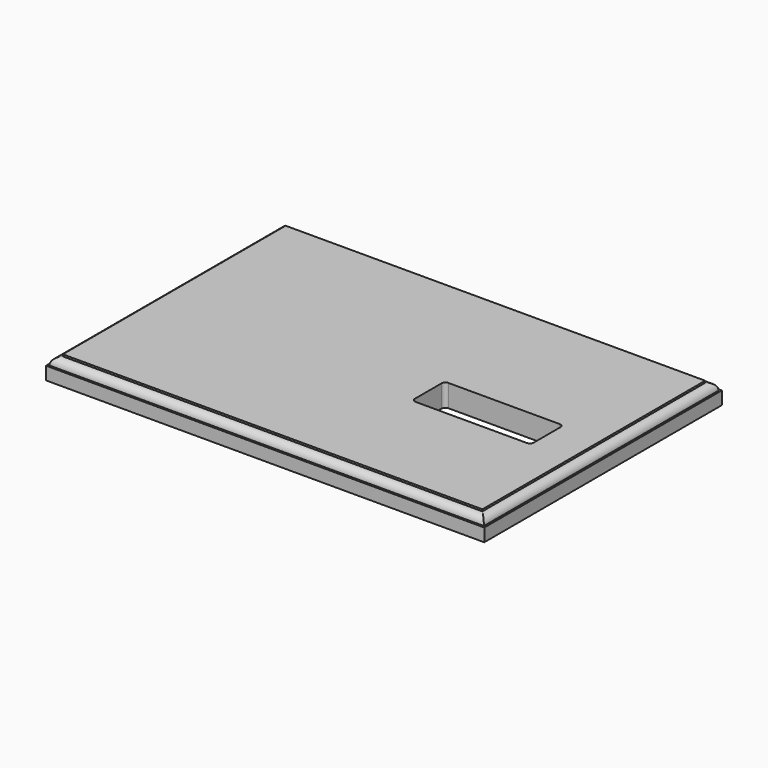
from build123d import *

# Parameters (mm, degrees)
F0_W     = 374.65
F0_H     = 254
F1_DEPTH = 19.05
F3_DEPTH = 152.4
F5_DEPTH = 203.2


with BuildPart() as f1:
    # F0 (on Top) → F1 (new body)
    with BuildSketch(Plane.XY):
        Rectangle(F0_W, F0_H)
        with BuildLine():
            Line((47.498, 9.398), (142.748, 9.398))
            ThreePointArc((142.748, 9.398), (144.9930640303, 8.4680640303), (145.923, 6.223))
            Line((145.923, 6.223), (145.923, -22.479))
            ThreePointArc((145.923, -22.479), (144.9930640303, -24.7240640303), (142.748, -25.654))
            Line((142.748, -25.654), (47.498, -25.654))
            ThreePointArc((47.498, -25.654), (45.2529359697, -24.7240640303), (44.323, -22.479))
            Line((44.323, -22.479), (44.323, 6.223))
            ThreePointArc((44.323, 6.223), (45.2529359697, 8.4680640303), (47.498, 9.398))
        make_face(mode=Mode.SUBTRACT)
    extrude(amount=-F1_DEPTH)

    # F2 (on Front) → F3 (cut, symmetric)
    with BuildSketch(Plane.XZ):
        with BuildLine():
            Line((187.325, 0), (179.3748, 0))
            Line((179.3748, 0), (179.3748, -1.6002))
            ThreePointArc((179.3748, -1.6002), (183.8649280605, -3.4600719395), (185.7248, -7.9502))
            Line((185.7248, -7.9502), (187.325, -7.9502))
            Line((187.325, -7.9502), (187.325, 0))
        make_face()
        with BuildLine():
            Line((-179.3748, -1.6002), (-179.3748, 0))
            Line((-179.3748, 0), (-187.325, 0))
            Line((-187.325, 0), (-187.325, -7.9502))
            Line((-187.325, -7.9502), (-185.7248, -7.9502))
            ThreePointArc((-185.7248, -7.9502), (-183.8649280605, -3.4600719395), (-179.3748, -1.6002))
        make_face()
    extrude(amount=F3_DEPTH, both=True, mode=Mode.SUBTRACT)

    # F4 (on Right) → F5 (cut, symmetric)
    with BuildSketch(Plane.YZ):
        with BuildLine():
            Line((127, 0), (119.0498, 0))
            Line((119.0498, 0), (119.0498, -1.6002))
            ThreePointArc((119.0498, -1.6002), (123.5399280605, -3.4600719395), (125.3998, -7.9502))
            Line((125.3998, -7.9502), (127, -7.9502))
            Line((127, -7.9502), (127, 0))
        make_face()
        with BuildLine():
            Line((-119.0498, -1.6002), (-119.0498, 0))
            Line((-119.0498, 0), (-127, 0))
            Line((-127, 0), (-127, -7.9502))
            Line((-127, -7.9502), (-125.3998, -7.9502))
            ThreePointArc((-125.3998, -7.9502), (-123.5399280605, -3.4600719395), (-119.0498, -1.6002))
        make_face()
    extrude(amount=F5_DEPTH, both=True, mode=Mode.SUBTRACT)


solid = f1.part
